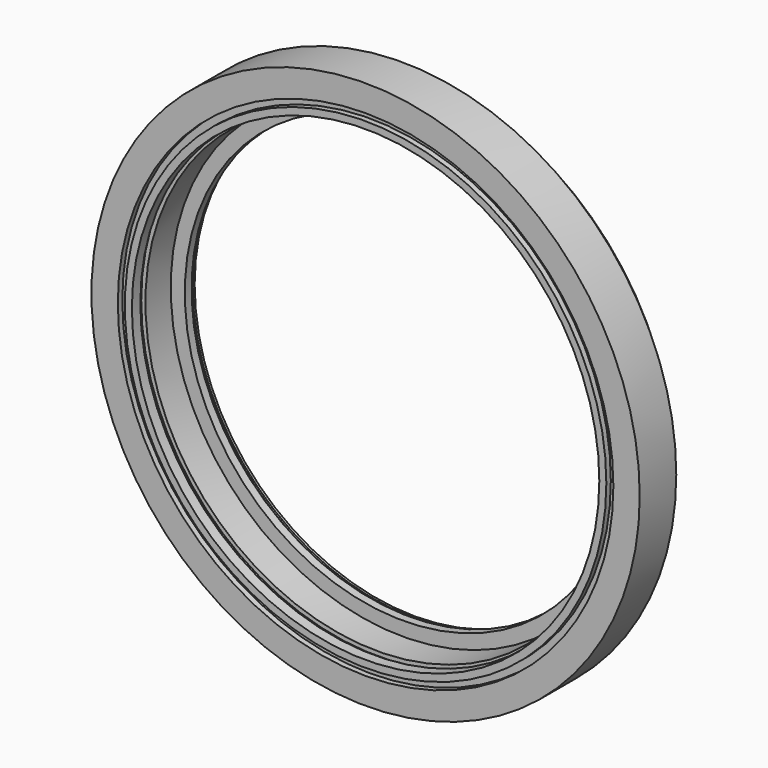
from build123d import *


with BuildPart() as part:
    # Sketch → Revolution (revolve)
    with BuildSketch(Plane.XY):
        Polygon((39, 0), (39, 6.5), (38.2, 6.5), (38.2, 7.3), (36.65, 8.85), (31.4, 8.85), (31.4, 8.5), (31.68, 8.5), (31.68, 7.8), (31, 7.8), (31, 6.6), (33, 6.6), (33, 2.1), (33.6, 2.1), (33.6, 1.85), (33.25, 1.5), (33.25, 0), (34.25, 0), (34.25, 0.8), (35.25, 0.8), (35.25, 0), align=None)
    revolve(axis=Axis((0, 0, 0), (0, 1, 0)))


solid = part.part
